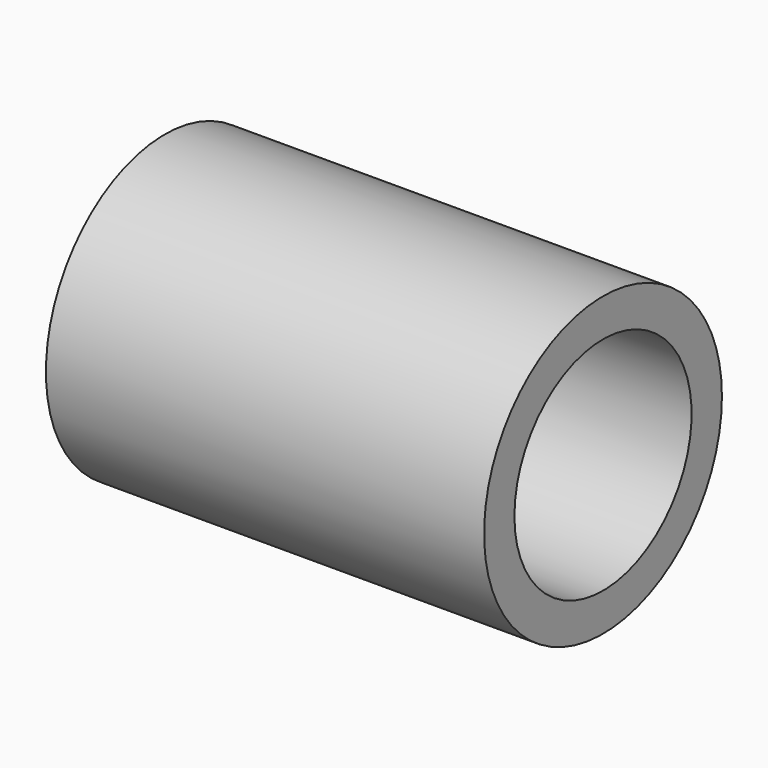
from build123d import *

# Parameters (mm, degrees)
F0_R     = 3.1877
F1_DEPTH = 4.699
F2_R     = 2.3749
F3_DEPTH = 12.7


with BuildPart() as f1:
    # F0 (on Right) → F1 (new body, symmetric)
    with BuildSketch(Plane.YZ):
        Circle(F0_R)
    extrude(amount=F1_DEPTH, both=True)

    # F2 (on face) → F3 (cut, symmetric)
    with BuildSketch(Plane(origin=(-4.699, 0, 0), x_dir=(0, -1, 0), z_dir=(-1, 0, 0))):
        Circle(F2_R)
    extrude(amount=F3_DEPTH, both=True, mode=Mode.SUBTRACT)


solid = f1.part
